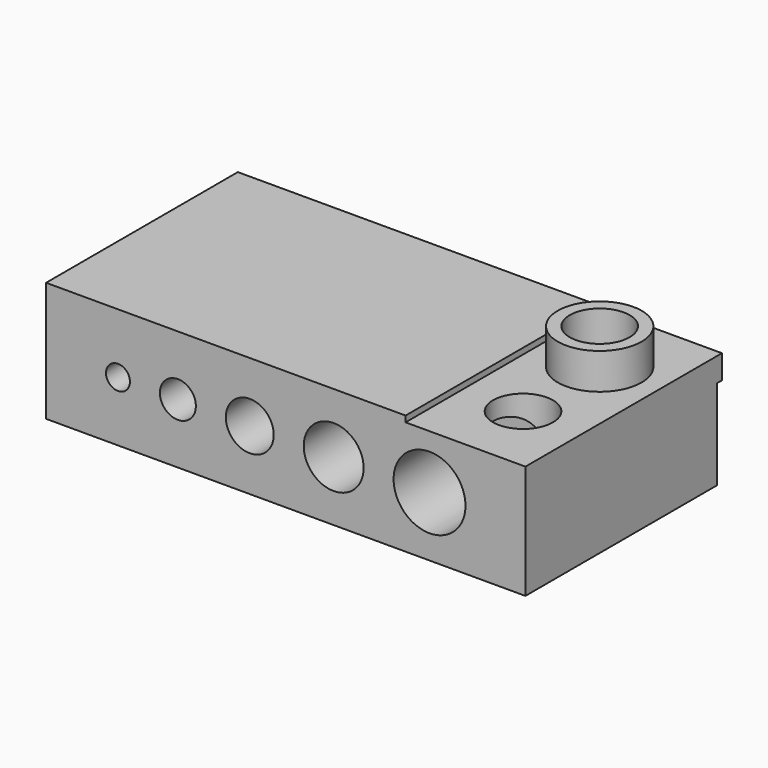
from build123d import *

# Parameters (mm, degrees)
F0_W      = 40
F0_H      = 20
F1_DEPTH  = 10
F2_R      = 1
F2_R_2    = 2.5
F2_R_3    = 1.5
F3_DEPTH  = 10
F4_R      = 1.5
F4_R_2    = 2
F4_R_3    = 2.5
F4_R_4    = 3
F4_R_5    = 1
F5_DEPTH  = 10
F6_W      = 10
F6_H      = 0.5
F7_DEPTH  = 20.001
F8_R      = 2.5
F9_DEPTH  = 9.501
F10_R     = 3.5
F10_R_2   = 2.5
F11_DEPTH = 3
F12_W     = 0.5
F12_H     = 2
F13_DEPTH = 10


with BuildPart() as f1:
    # F0 (on Top) → F1 (new body)
    with BuildSketch(Plane.XY):
        Rectangle(F0_W, F0_H)
    extrude(amount=F1_DEPTH)

    # F2 (on face) → F3 (cut)
    with BuildSketch(Plane(origin=(-20, 0, 0), x_dir=(0, -1, 0), z_dir=(-1, 0, 0))):
        with Locations((6, 5)):
            Circle(F2_R)
        with Locations((-5, 5)):
            Circle(F2_R_2)
        with Locations((1, 5)):
            Circle(F2_R_3)
    extrude(amount=-F3_DEPTH, mode=Mode.SUBTRACT)

    # F4 (on face) → F5 (cut)
    with BuildSketch(Plane.XZ.offset(10)):
        with Locations((-9, 5)):
            Circle(F4_R)
        with Locations((-3, 5)):
            Circle(F4_R_2)
        with Locations((4, 5)):
            Circle(F4_R_3)
        with Locations((12, 5)):
            Circle(F4_R_4)
        with Locations((-14, 5)):
            Circle(F4_R_5)
    extrude(amount=-F5_DEPTH, mode=Mode.SUBTRACT)

    # F6 (on face) → F7 (cut, through all)
    with BuildSketch(Plane.XZ.offset(10)):
        with Locations((15, 9.75)):
            Rectangle(F6_W, F6_H)
    extrude(amount=-F7_DEPTH, mode=Mode.SUBTRACT)

    # F8 (on face) → F9 (cut, through all)
    with BuildSketch(Plane.XY.offset(9.5)):
        with Locations((15, 4)):
            Circle(F8_R)
        with Locations((15, -4)):
            Circle(F8_R)
    extrude(amount=-F9_DEPTH, mode=Mode.SUBTRACT)

    # F10 (on face) → F11 (join)
    with BuildSketch(Plane.XY.offset(9.5)):
        with Locations((15, 4)):
            Circle(F10_R)
        with Locations((15, 4)):
            Circle(F10_R_2, mode=Mode.SUBTRACT)
    extrude(amount=F11_DEPTH)

    # F12 (on face) → F13 (join)
    with BuildSketch(Plane.YZ.offset(20)):
        with Locations((10.25, 8.5)):
            Rectangle(F12_W, F12_H)
    extrude(amount=-F13_DEPTH)


solid = f1.part
